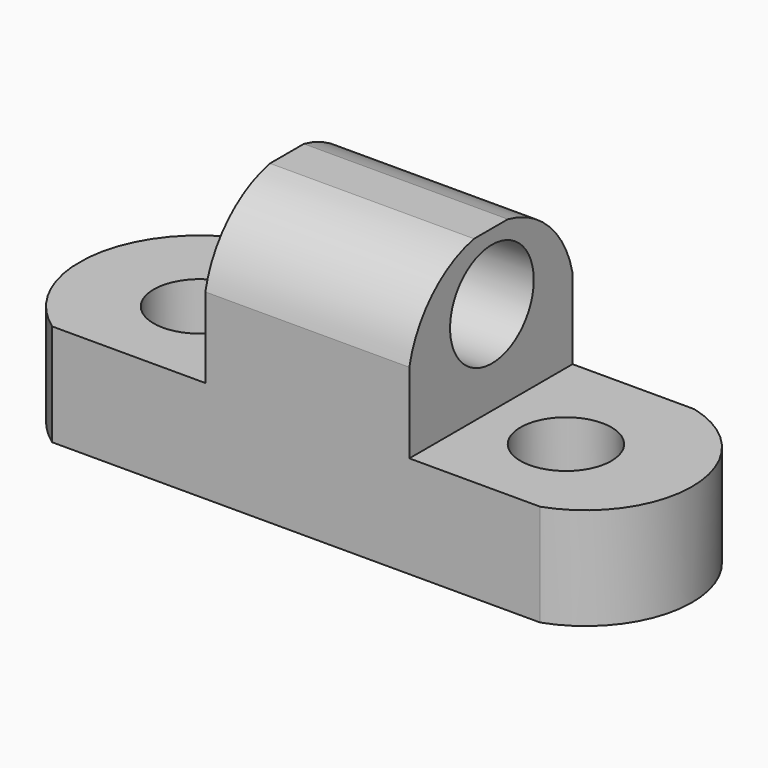
from build123d import *

# Parameters (mm, degrees)
F1_DEPTH  = 25.4
F3_DEPTH  = 25.4
F5_DEPTH  = 25.4
F7_DEPTH  = 25.4
F8_R      = 5.661864
F8_R_2    = 5.740655
F9_DEPTH  = 25.4
F10_R     = 6.51074
F11_DEPTH = 25.4


with BuildPart() as f1:
    # F0 (on Front) → F1 (new body)
    with BuildSketch(Plane.XZ):
        Polygon((-57.679164, 12.697244), (-57.414579, 0), (18.520836, 0), (18.520836, 12.697244), (-6.879164, 12.697244), (-6.879164, 32.676041), (-32.279164, 32.676041), (-32.279164, 12.697244), align=None)
    extrude(amount=F1_DEPTH)

    # F2 (on face) → F3 (cut)
    with BuildSketch(Plane.YZ.offset(-6.879164)):
        with BuildLine():
            ThreePointArc((-25.4, 22.686642), (-21.850641, 29.175992), (-15.334563, 32.676041))
            Line((-15.334563, 32.676041), (-25.4, 32.676041))
            Line((-25.4, 32.676041), (-25.4, 22.686642))
        make_face()
        with BuildLine():
            ThreePointArc((-10.065437, 32.676041), (-3.549359, 29.175992), (0, 22.686642))
            Line((0, 22.686642), (0, 32.676041))
            Line((0, 32.676041), (-10.065437, 32.676041))
        make_face()
    extrude(amount=-F3_DEPTH, mode=Mode.SUBTRACT)

    # F4 (on face) → F5 (cut)
    with BuildSketch(Plane.XY.offset(12.697244)):
        with BuildLine():
            ThreePointArc((-57.679164, -11.891091), (-55.299332, -4.965624), (-49.917113, 0))
            Line((-49.917113, 0), (-57.679164, 0))
            Line((-57.679164, 0), (-57.679164, -11.891091))
        make_face()
        with BuildLine():
            ThreePointArc((-51.343318, -25.4), (-55.737963, -20.601527), (-57.679164, -14.391054))
            Line((-57.679164, -14.391054), (-57.679164, -25.4))
            Line((-57.679164, -25.4), (-51.343318, -25.4))
        make_face()
    extrude(amount=-F5_DEPTH, mode=Mode.SUBTRACT)

    # F6 (on face) → F7 (cut)
    with BuildSketch(Plane.XY.offset(12.697244)):
        with BuildLine():
            ThreePointArc((8.271978, 0), (18.290982, -12.275574), (9.412941, -25.4))
            Line((9.412941, -25.4), (18.520836, -25.4))
            Line((18.520836, -25.4), (18.520836, 0))
            Line((18.520836, 0), (8.271978, 0))
        make_face()
    extrude(amount=-F7_DEPTH, mode=Mode.SUBTRACT)

    # F8 (on face) → F9 (cut)
    with BuildSketch(Plane.XY.offset(12.697244)):
        with Locations((3.137648, -13.54893)):
            Circle(F8_R)
        with Locations((-42.774935, -13.141072)):
            Circle(F8_R_2)
    extrude(amount=-F9_DEPTH, mode=Mode.SUBTRACT)

    # F10 (on face) → F11 (cut)
    with BuildSketch(Plane.YZ.offset(-6.879164)):
        with Locations((-12.550588, 24.388077)):
            Circle(F10_R)
    extrude(amount=-F11_DEPTH, mode=Mode.SUBTRACT)


solid = f1.part
